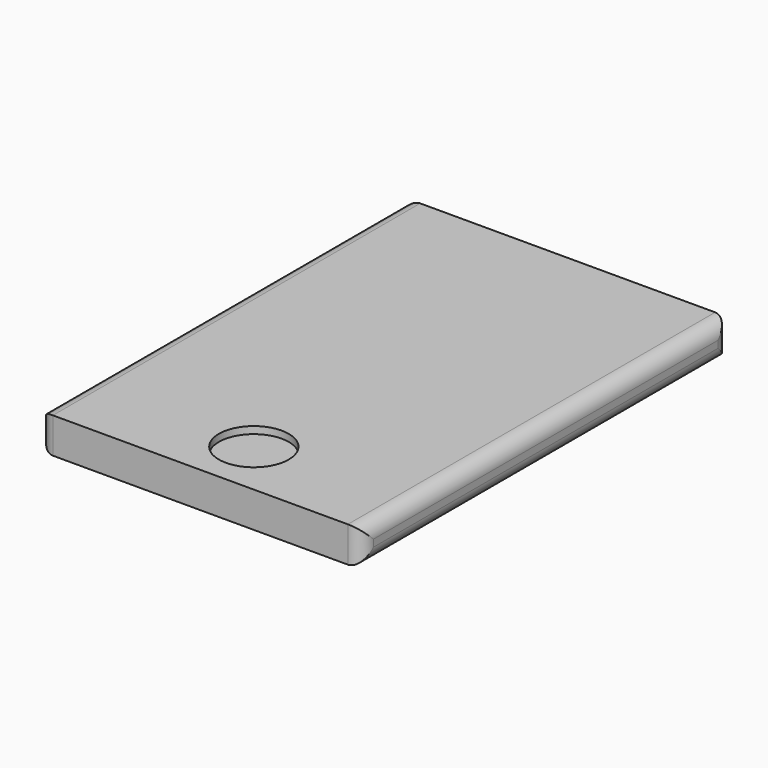
from build123d import *

# Parameters (mm, degrees)
F0_W     = 45.5336533487
F0_H     = 64.6490454674
F1_DEPTH = 5
F2_R     = 2
F3_R     = 4.9143331214
F4_DEPTH = 1
F5_R     = 1.2295476181
F6_DEPTH = 5


with BuildPart() as f1:
    # F0 (on Top) → F1 (new body)
    with BuildSketch(Plane.XY):
        with Locations((22.7668266743, 32.3245227337)):
            Rectangle(F0_W, F0_H)
    extrude(amount=F1_DEPTH)

    # F2
    f2_edges = [f1.edges().sort_by_distance(p)[0] for p in [
        (0, 64.649045, 2.5),
        (0, 0, 2.5),
        (0, 32.324523, 0),
        (0, 32.324523, 5),
        (45.533653, 0, 2.5),
        (45.533653, 64.649045, 2.5),
        (45.533653, 32.324523, 0),
        (45.533653, 32.324523, 5),
    ]]
    fillet(f2_edges, radius=F2_R)

    # F3 (on face) → F4 (cut)
    with BuildSketch(Plane.XY.offset(5)):
        with Locations((23.9143331214, 7.975962013)):
            Circle(F3_R)
    extrude(amount=-F4_DEPTH, mode=Mode.SUBTRACT)

    # F5 (on face) → F6 (cut)
    with BuildSketch(Plane(origin=(0, 64.6490454674, 0), x_dir=(-1, 0, 0), z_dir=(0, 1, 0))):
        with Locations((-40.4135324061, 2.5)):
            Circle(F5_R)
    extrude(amount=-F6_DEPTH, mode=Mode.SUBTRACT)


solid = f1.part
